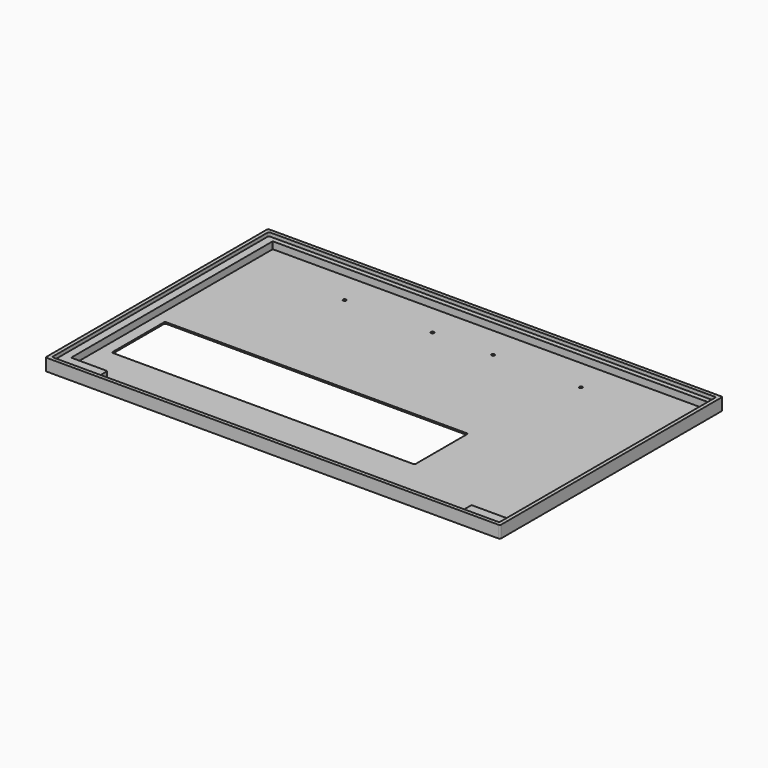
from build123d import *

# Parameters (mm, degrees)
PAD006_DEPTH    = 10
POCKET_DEPTH    = 3
POCKET001_DEPTH = 8.75
POCKET002_DEPTH = 10.001
SKETCH071_R     = 1.25
POCKET032_DEPTH = 5


with BuildPart() as part:
    # Sketch006 → Pad006 (new body)
    with BuildSketch(Plane.XY):
        with BuildLine():
            Line((1, 0), (374, 0))
            ThreePointArc((374, 0), (374.707107, 0.292893), (375, 1))
            Line((375, 1), (375, 228.5))
            ThreePointArc((375, 228.5), (374.707107, 229.207107), (374, 229.5))
            Line((374, 229.5), (1, 229.5))
            ThreePointArc((1, 229.5), (0.292893, 229.207107), (0, 228.5))
            Line((0, 228.5), (0, 1))
            ThreePointArc((0, 1), (0.292893, 0.292893), (1, 0))
        make_face()
    extrude(amount=-PAD006_DEPTH)

    # Sketch007 → Pocket (cut)
    with BuildSketch(Plane.XY):
        with BuildLine():
            Line((4, 3), (371, 3))
            ThreePointArc((371, 3), (371.707107, 3.292893), (372, 4))
            Line((372, 4), (372, 225.5))
            ThreePointArc((372, 225.5), (371.707107, 226.207107), (371, 226.5))
            Line((371, 226.5), (4, 226.5))
            ThreePointArc((4, 226.5), (3.292893, 226.207107), (3, 225.5))
            Line((3, 225.5), (3, 4))
            ThreePointArc((3, 4), (3.292893, 3.292893), (4, 3))
        make_face()
    extrude(amount=-POCKET_DEPTH, mode=Mode.SUBTRACT)

    # Sketch008 → Pocket001 (cut)
    with BuildSketch(Plane.XY):
        with BuildLine():
            Line((10.05, 222.45), (368.95, 222.45))
            ThreePointArc((369.45, 221.95), (369.303553, 222.303553), (368.95, 222.45))
            Line((369.45, 221.95), (369.45, 15.55))
            ThreePointArc((368.95, 15.05), (369.303553, 15.196447), (369.45, 15.55))
            Line((368.95, 15.05), (339.95, 15.05))
            ThreePointArc((339.95, 15.05), (339.596447, 14.903553), (339.45, 14.55))
            Line((339.45, 14.55), (339.45, 4.85))
            ThreePointArc((338.95, 4.35), (339.303553, 4.496447), (339.45, 4.85))
            Line((338.95, 4.35), (40.05, 4.35))
            ThreePointArc((39.55, 4.85), (39.696447, 4.496447), (40.05, 4.35))
            Line((39.55, 4.85), (39.55, 14.05))
            ThreePointArc((39.55, 14.05), (39.403553, 14.403553), (39.05, 14.55))
            Line((39.05, 14.55), (10.05, 14.55))
            ThreePointArc((9.55, 15.05), (9.696447, 14.696447), (10.05, 14.55))
            Line((9.55, 15.05), (9.55, 221.95))
            ThreePointArc((10.05, 222.45), (9.696447, 222.303553), (9.55, 221.95))
        make_face()
    extrude(amount=-POCKET001_DEPTH, mode=Mode.SUBTRACT)

    # Sketch009 → Pocket002 (cut, through all)
    with BuildSketch(Plane.XY):
        with BuildLine():
            Line((19.55, 45.05), (267.55, 45.05))
            ThreePointArc((267.55, 45.05), (268.257107, 45.342893), (268.55, 46.05))
            Line((268.55, 46.05), (268.55, 99.05))
            ThreePointArc((268.55, 99.05), (268.257107, 99.757107), (267.55, 100.05))
            Line((267.55, 100.05), (19.55, 100.05))
            ThreePointArc((19.55, 100.05), (18.842893, 99.757107), (18.55, 99.05))
            Line((18.55, 99.05), (18.55, 46.05))
            ThreePointArc((18.55, 46.05), (18.842893, 45.342893), (19.55, 45.05))
        make_face()
    extrude(amount=-POCKET002_DEPTH, mode=Mode.SUBTRACT)

    # Sketch071 (on DatumPlane) → Pocket032 (cut)
    with BuildSketch(Plane.XY.offset(-10)):
        with Locations((5, 221.5)):
            Circle(SKETCH071_R)
        with Locations((5, 8)):
            Circle(SKETCH071_R)
        with Locations((370, 8)):
            Circle(SKETCH071_R)
        with Locations((370, 221.5)):
            Circle(SKETCH071_R)
        with Locations((370, 114.75)):
            Circle(SKETCH071_R)
        with Locations((162.5, 196)):
            Circle(SKETCH071_R)
        with Locations((212.5, 196)):
            Circle(SKETCH071_R)
        with Locations((90, 196)):
            Circle(SKETCH071_R)
        with Locations((285, 196)):
            Circle(SKETCH071_R)
        with Locations((187.5, 5)):
            Circle(SKETCH071_R)
    extrude(amount=POCKET032_DEPTH, mode=Mode.SUBTRACT)


solid = part.part
